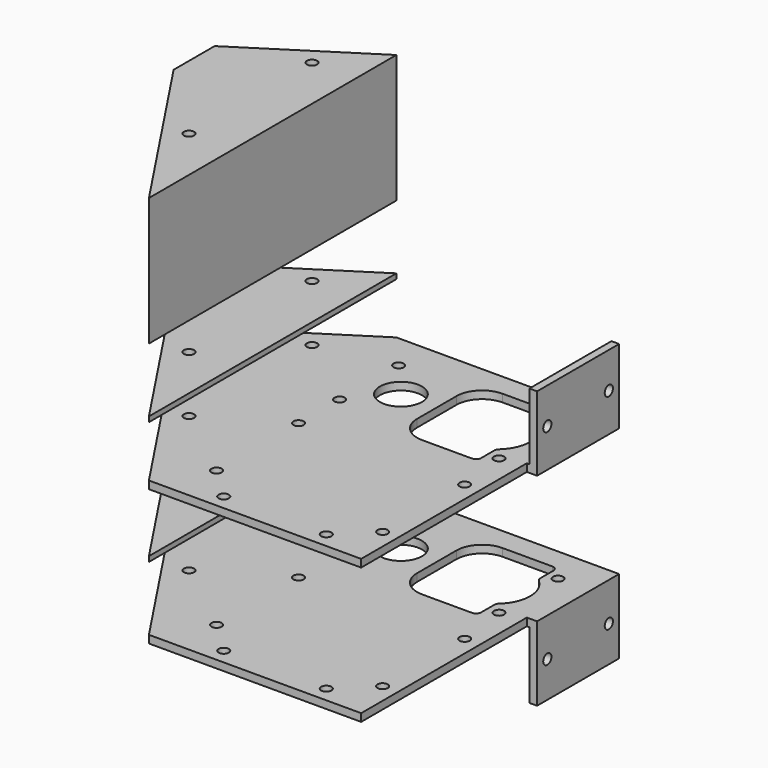
from build123d import *

# Parameters (mm, degrees)
F0_R      = 1
F0_R_2    = 4.1
F1_DEPTH  = 1.5
F2_W      = 20
F2_H      = 1.5
F3_DEPTH  = 2
F4_W      = 1.5
F4_H      = 20
F5_DEPTH  = 13
F8_R      = 1
F9_DEPTH  = 1.5
F10_W     = 60.4
F10_H     = 1.5
F11_DEPTH = 26.5
F12_R     = 1
F13_DEPTH = 1.5
F16_R     = 1
F17_DEPTH = 25
F18_R     = 1
F19_DEPTH = 1


with BuildPart() as f1:
    # F0 (on Top) → F1 (new body)
    with BuildSketch(Plane.XY):
        Polygon((19.2, -14.2), (19.2, 14.2), (-19.2, 14.2), (-19.2, -14.2), (-19.2, -46.2), (19.2, -46.2), align=None)
        with Locations((-10, -43.2)):
            Circle(F0_R, mode=Mode.SUBTRACT)
        with Locations((-16.2, -37.2)):
            Circle(F0_R, mode=Mode.SUBTRACT)
        with Locations((-16.2, -17.2)):
            Circle(F0_R, mode=Mode.SUBTRACT)
        with Locations((10, -43.2)):
            Circle(F0_R, mode=Mode.SUBTRACT)
        with Locations((16.2, -37.2)):
            Circle(F0_R, mode=Mode.SUBTRACT)
        with Locations((16.2, -17.2)):
            Circle(F0_R, mode=Mode.SUBTRACT)
        with Locations((-16.2, -7.2)):
            Circle(F0_R, mode=Mode.SUBTRACT)
        with Locations((-10, 0)):
            Circle(F0_R_2, mode=Mode.SUBTRACT)
        with Locations((-16.2, 7.2)):
            Circle(F0_R, mode=Mode.SUBTRACT)
        with Locations((14.9, -7.2)):
            Circle(F0_R, mode=Mode.SUBTRACT)
        with BuildLine():
            ThreePointArc((-3, 4.8), (-1.535534, 8.335534), (2, 9.8))
            Line((2, 9.8), (11.7, 9.8))
            ThreePointArc((11.7, 9.8), (12.407107, 9.507107), (12.7, 8.8))
            Line((12.7, 8.8), (12.7, 5.59017))
            ThreePointArc((12.7, 5.59017), (12.787129, 5.181922), (13.033333, 4.844814))
            ThreePointArc((13.033333, 4.844814), (15.2, 0), (13.033333, -4.844814))
            ThreePointArc((13.033333, -4.844814), (12.787129, -5.181922), (12.7, -5.59017))
            Line((12.7, -5.59017), (12.7, -8.8))
            ThreePointArc((12.7, -8.8), (12.407107, -9.507107), (11.7, -9.8))
            Line((11.7, -9.8), (2, -9.8))
            ThreePointArc((2, -9.8), (-1.535534, -8.335534), (-3, -4.8))
            Line((-3, -4.8), (-3, 4.8))
        make_face(mode=Mode.SUBTRACT)
        with Locations((14.9, 7.2)):
            Circle(F0_R, mode=Mode.SUBTRACT)
    extrude(amount=F1_DEPTH)

    # F2 (on face) → F3 (join)
    with BuildSketch(Plane.YZ.offset(19.2)):
        with Locations((4.2, 0.75)):
            Rectangle(F2_W, F2_H)
    extrude(amount=F3_DEPTH)

    # F4 (on face) → F5 (join)
    with BuildSketch(Plane.XY.offset(1.5)):
        with Locations((20.45, 4.2)):
            Rectangle(F4_W, F4_H)
    extrude(amount=F5_DEPTH)


with BuildPart() as f7_1:
    # F7: instance of F1
    add(f1.part.mirror(Plane.XY.offset(-12.5)))


with BuildPart() as f9_tool:
    # F8 (on face) → F9 (new body, through all)
    with BuildSketch(Plane.YZ.offset(21.2)):
        with Locations((11.7, 7.5)):
            Circle(F8_R)
        with Locations((-3.3, 7.5)):
            Circle(F8_R)
        with Locations((11.7, -32.5)):
            Circle(F8_R)
        with Locations((-3.3, -32.5)):
            Circle(F8_R)
    extrude(amount=-F9_DEPTH)


with BuildPart() as f1_1:
    add(f1.part)

    # F9: cut by f9_tool
    add(f9_tool.part, mode=Mode.SUBTRACT)

    # F10 (on face) → F11 (join)
    with BuildSketch(Plane(origin=(-19.2, 0, 0), x_dir=(0, -1, 0), z_dir=(-1, 0, 0))):
        with Locations((16, 0.75)):
            Rectangle(F10_W, F10_H)
    extrude(amount=F11_DEPTH)

    # F12 (on face) → F13 (cut, through all)
    with BuildSketch(Plane.XY.offset(1.5)):
        Polygon((-22.2, -46.2), (-45.7, -10.8), (-45.7, -46.2), align=None)
        Polygon((-45.7, -0.8), (-22.25, 14.2), (-45.7, 14.2), align=None)
        with Locations((-30.7, 4.2)):
            Circle(F12_R)
        with Locations((-30.7, -25.8)):
            Circle(F12_R)
    extrude(amount=-F13_DEPTH, mode=Mode.SUBTRACT)


with BuildPart() as f7_1_1:
    add(f7_1.part)

    # F9: cut by f9_tool
    add(f9_tool.part, mode=Mode.SUBTRACT)

    # F14: F1 across plane
    add(f1_1.part.mirror(Plane.XY.offset(-12.5)))


with BuildPart() as f17:
    # F16 (on offset) → F17 (new body)
    with BuildSketch(Plane.XY.offset(25)):
        Polygon((-22.2, -46.2), (-22.25, 14.2), (-45.7, -0.8), (-45.7, -10.8), align=None)
        with Locations((-30.7, -25.8)):
            Circle(F16_R, mode=Mode.SUBTRACT)
        with Locations((-30.7, 4.2)):
            Circle(F16_R, mode=Mode.SUBTRACT)
    extrude(amount=F17_DEPTH)


with BuildPart() as f19:
    # F18 (on offset) → F19 (new body)
    with BuildSketch(Plane.XY.offset(-12.5)):
        Polygon((-22.2, -46.2), (-22.25, 14.2), (-45.7, -0.8), (-45.7, -10.8), align=None)
        with Locations((-30.7, -25.8)):
            Circle(F18_R, mode=Mode.SUBTRACT)
        with Locations((-30.7, 4.2)):
            Circle(F18_R, mode=Mode.SUBTRACT)
    extrude(amount=F19_DEPTH)


with BuildPart() as f20_1:
    # F20: instance of F19
    add(f19.part.mirror(Plane.XY))


solid = Compound([f1_1.part, f7_1_1.part, f17.part, f19.part, f20_1.part])
